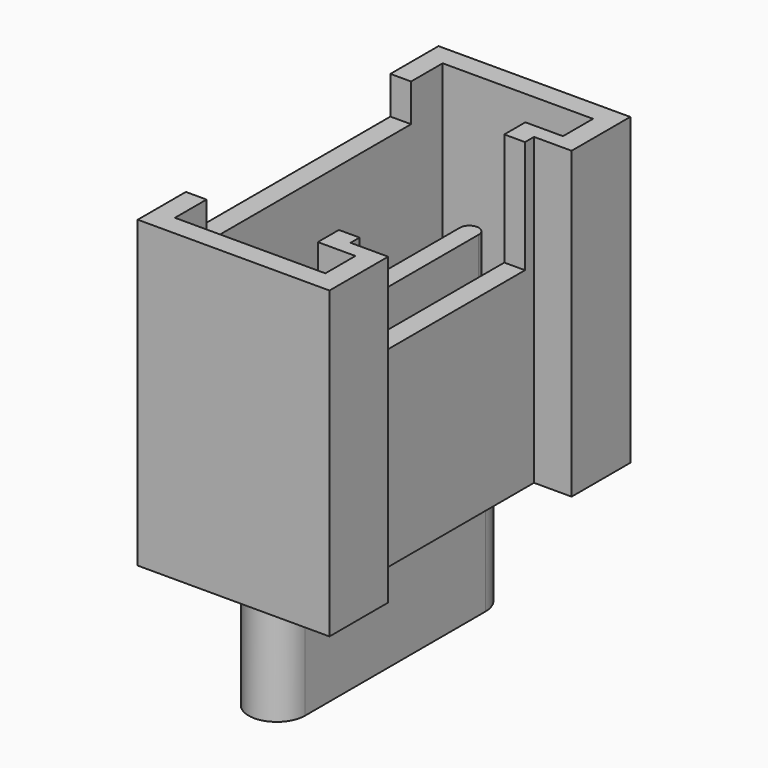
from build123d import *

# Parameters (mm, degrees)
PAD010_DEPTH            = 8.1
POCKET007_DEPTH         = 7
SKETCH024_W             = 6.8
SKETCH024_H             = 5
POCKET009_DEPTH         = 1
SKETCH018_W             = 5.5
SKETCH018_H             = 3
POCKET010_DEPTH         = 3
PAD013_DEPTH            = 4
PAD011_DEPTH            = 3.4
BODY014_PLACEMENT_ANGLE = 90


with BuildPart() as part:
    # Sketch022 → Pad010 (new body)
    with BuildSketch(Plane.XY):
        Polygon((-5, 0), (-3.05, 0), (-3.05, 1), (3.05, 1), (3.05, 0), (5, 0), (5, 5.1), (-5, 5.1), align=None)
    extrude(amount=PAD010_DEPTH)

    # Sketch021 (on Face10 of Pad010) → Pocket007 (cut)
    with BuildSketch(Plane.XY.offset(8.1)):
        Polygon((-4.45, 0.55), (-3.45, 0.55), (-3.45, 1.55), (3.45, 1.55), (3.45, 0.55), (4.45, 0.55), (4.45, 4.55), (-4.45, 4.55), align=None)
    extrude(amount=-POCKET007_DEPTH, mode=Mode.SUBTRACT)

    # Sketch024 (on Face5 of Pocket007) → Pocket009 (cut)
    with BuildSketch(Plane.XY.offset(8.1)):
        with Locations((0, 5.5)):
            Rectangle(SKETCH024_W, SKETCH024_H)
    extrude(amount=-POCKET009_DEPTH, mode=Mode.SUBTRACT)

    # Sketch018 (on Face5 of Pocket009) → Pocket010 (cut)
    with BuildSketch(Plane.XY.offset(8.1)):
        with Locations((0, 1.5)):
            Rectangle(SKETCH018_W, SKETCH018_H)
    extrude(amount=-POCKET010_DEPTH, mode=Mode.SUBTRACT)

    # Sketch023 (on Face26 of Pocket010) → Pad013 (join)
    with BuildSketch(Plane.XY.offset(1.1)):
        with BuildLine():
            ThreePointArc((-3.4, 3.25), (-3.65, 3), (-3.4, 2.75))
            Line((-3.4, 2.75), (3.4, 2.75))
            ThreePointArc((3.4, 2.75), (3.65, 3), (3.4, 3.25))
            Line((-3.4, 3.25), (3.4, 3.25))
        make_face()
    extrude(amount=PAD013_DEPTH)

    # Sketch019 → Pad011 (join)
    with BuildSketch(Plane.XY):
        with BuildLine():
            ThreePointArc((-3, 3.75), (-3.75, 3), (-3, 2.25))
            Line((-3, 2.25), (3, 2.25))
            ThreePointArc((3, 2.25), (3.75, 3), (3, 3.75))
            Line((-3, 3.75), (3, 3.75))
        make_face()
    extrude(amount=-PAD011_DEPTH)


with BuildPart() as part_1:
    # Body014 placement: moved
    add(part.part.moved(Location((-13.8, 0, 1.6))).rotate(Axis((-13.8, 0, 1.6), (0, 0, 1)), BODY014_PLACEMENT_ANGLE))


with BuildPart() as part_2:
    # Clone009 placement: moved
    add(part_1.part.moved(Location((-0.2, 0, 0))))


with BuildPart() as part_3:
    # Body016 placement: moved
    add(part_2.part.moved(Location((25, 0, 0))))


solid = part_3.part
